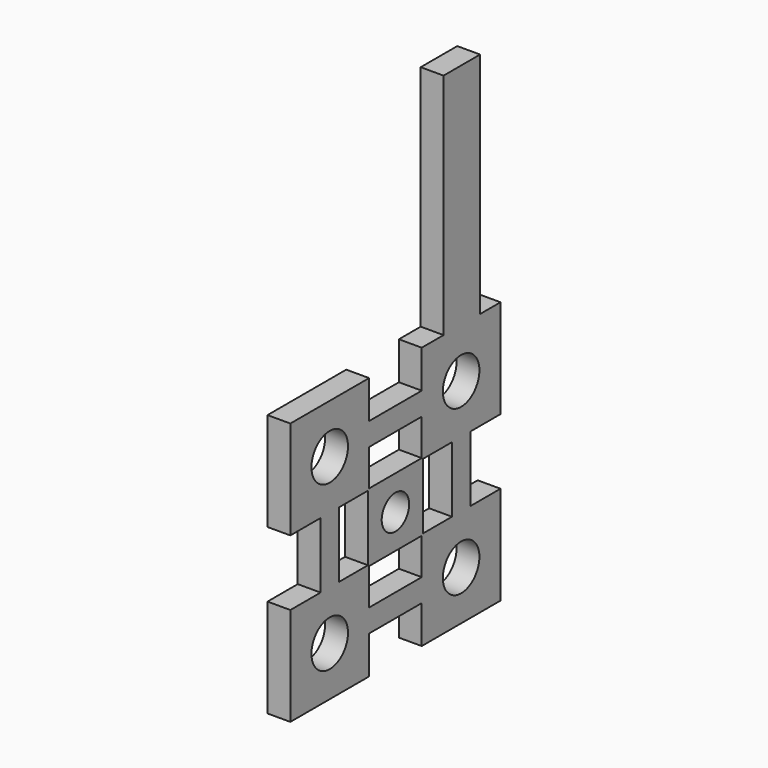
from build123d import *

# Parameters (mm, degrees)
F0_R     = 1
F0_W     = 2.88
F0_H     = 1
F0_W_2   = 1
F0_H_2   = 2.874
F0_R_2   = 0.75
F0_W_3   = 2
F0_H_3   = 10
F1_DEPTH = 1


with BuildPart() as f1:
    # F0 (on Right) → F1 (new body)
    with BuildSketch(Plane.YZ):
        Polygon((4.31, 0), (0, 0), (0, -4.313), (1.655, -4.313), (2.655, -4.313), (4.245, -4.313), (4.31, -4.313), (4.31, -4.253), (4.31, -2.6565), (4.31, -1.6565), align=None)
        with Locations((2.155, -2.1565)):
            Circle(F0_R, mode=Mode.SUBTRACT)
        Polygon((7.19, 0), (7.19, -1.6565), (7.19, -2.6565), (7.19, -4.253), (7.19, -4.313), (7.25, -4.313), (8.845, -4.313), (9.845, -4.313), (11.5, -4.313), (11.5, 0), (10.384145, 0), (8.384145, 0), align=None)
        with Locations((9.345, -2.1565)):
            Circle(F0_R, mode=Mode.SUBTRACT)
        with Locations((5.75, -2.1565)):
            Rectangle(F0_W, F0_H)
        with Locations((2.155, -5.75)):
            Rectangle(F0_W_2, F0_H_2)
        Polygon((2.655, -7.187), (1.655, -7.187), (0, -7.187), (0, -11.5), (4.31, -11.5), (4.31, -9.8435), (4.31, -8.8435), (4.31, -7.247), (4.31, -7.187), (4.245, -7.187), align=None)
        with Locations((2.155, -9.3435)):
            Circle(F0_R, mode=Mode.SUBTRACT)
        Polygon((8.845, -7.187), (7.25, -7.187), (7.19, -7.187), (7.19, -7.247), (7.19, -8.8435), (7.19, -9.8435), (7.19, -11.5), (11.5, -11.5), (11.5, -7.187), (9.845, -7.187), align=None)
        with Locations((9.345, -9.3435)):
            Circle(F0_R, mode=Mode.SUBTRACT)
        with Locations((5.75, -9.3435)):
            Rectangle(F0_W, F0_H)
        Polygon((7.19, -4.253), (4.31, -4.253), (4.31, -4.313), (4.245, -4.313), (4.245, -7.187), (4.31, -7.187), (4.31, -7.247), (7.19, -7.247), (7.19, -7.187), (7.25, -7.187), (7.25, -4.313), (7.19, -4.313), align=None)
        with Locations((5.75, -5.75)):
            Circle(F0_R_2, mode=Mode.SUBTRACT)
        with Locations((9.345, -5.75)):
            Rectangle(F0_W_2, F0_H_2)
        with Locations((9.384145, 5)):
            Rectangle(F0_W_3, F0_H_3)
    extrude(amount=F1_DEPTH)


solid = f1.part
